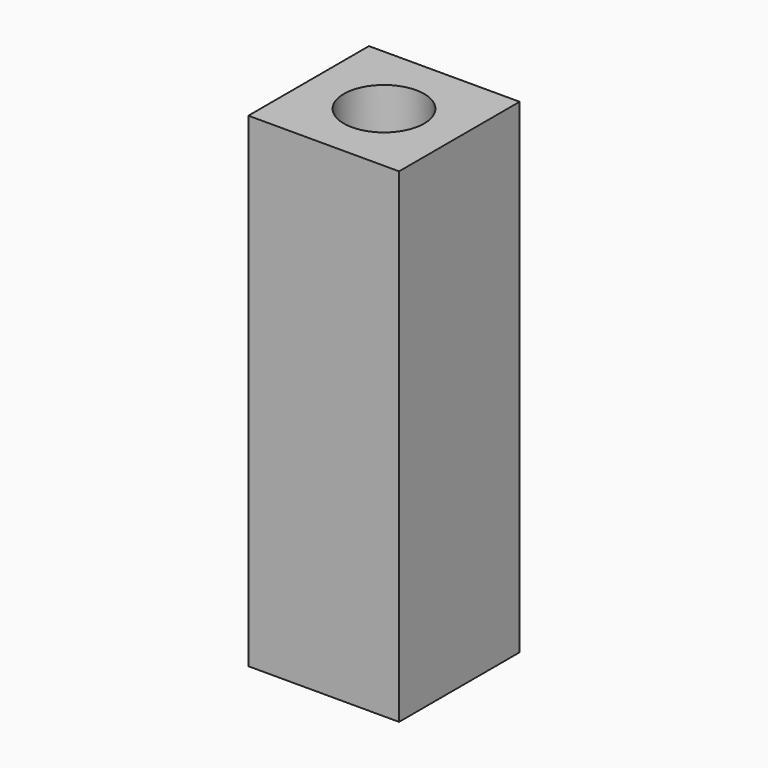
from build123d import *

# Parameters (mm, degrees)
SKETCH025_W      = 6
SKETCH025_H      = 6
EXTRUDE016_DEPTH = 19.3
SKETCH026_R      = 1.6
HOLE003_DEPTH    = 2.3
HOLE003_TIPS_R   = 1.6


with BuildPart() as part:
    # Sketch025 (on Face6 of BaseFeature005) → Extrude016 (new body)
    with BuildSketch(Plane.XY.offset(2)):
        with Locations((79.200001, -104.300002)):
            Rectangle(SKETCH025_W, SKETCH025_H)
    extrude(amount=EXTRUDE016_DEPTH)

    # Sketch026 (on Face6 of Extrude016) → Hole003 (cut)
    with BuildSketch(Plane.XY.offset(21.3)):
        with Locations((79.200001, -104.300002)):
            Circle(SKETCH026_R)
    extrude(amount=-HOLE003_DEPTH, mode=Mode.SUBTRACT)

    # Hole003 tips → Hole003 tip 1 section 0
    with BuildSketch(Plane.XY.offset(19), mode=Mode.PRIVATE) as hole003_tip_1_s0:
        with Locations((79.200001, -104.300002)):
            Circle(HOLE003_TIPS_R)
    loft([hole003_tip_1_s0.sketch, Vertex(79.200001, -104.300002, 18.038623)], mode=Mode.SUBTRACT)


solid = part.part
